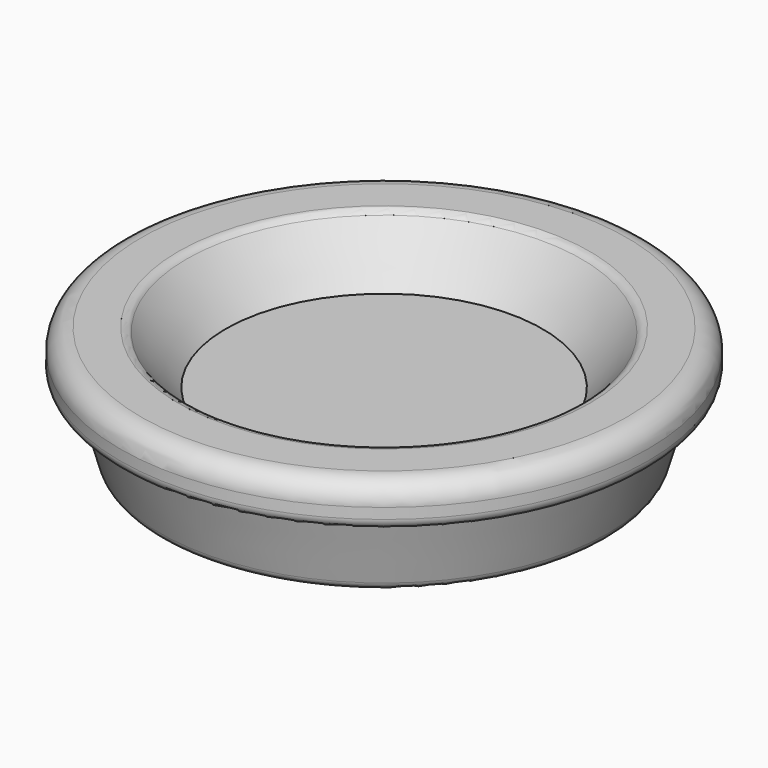
from build123d import *

# Parameters (mm, degrees)
FILLET017_R               = 1
FILLET018_R               = 1
FILLET019_R               = 2
FILLET020_R               = 1
FILLET020_PLACEMENT_ANGLE = 180


with BuildPart() as cone010:
    # Cone010 → Cone010 (revolve)
    with BuildSketch(Plane.XZ):
        Polygon((0, 0), (19, 0), (15, 5), (0, 5), align=None)
    revolve(axis=Axis((0, 0, 0), (0, 0, 1)))


with BuildPart() as fillet020:
    # Sketch013 → Revolve (revolve)
    with BuildSketch(Plane.XZ):
        Polygon((0, 0), (-25, 0), (-25, 4), (-23, 4), (-21, 11), (-8, 11), (-8, 17), (0, 17), align=None)
    revolve(axis=Axis((0, 0, 0), (0, 0, 1)))

    # Fillet017
    fillet017_edges = [fillet020.edges().sort_by_distance(p)[0] for p in [
        (21, 0, 11),
        (8, 0, 17),
    ]]
    fillet(fillet017_edges, radius=FILLET017_R)

    # Fillet018
    fillet018_edges = [fillet020.edges().sort_by_distance(p)[0] for p in [
        (25, 0, 4),
    ]]
    fillet(fillet018_edges, radius=FILLET018_R)

    # Fillet019
    fillet019_edges = [fillet020.edges().sort_by_distance(p)[0] for p in [
        (25, 0, 0),
    ]]
    fillet(fillet019_edges, radius=FILLET019_R)

    # Cut014: cut Cone010
    add(cone010.part, mode=Mode.SUBTRACT)

    # Fillet020
    fillet020_edges = [fillet020.edges().sort_by_distance(p)[0] for p in [
        (-19, 0, 0),
    ]]
    fillet(fillet020_edges, radius=FILLET020_R)


with BuildPart() as fillet020_1:
    # Fillet020 placement: moved
    add(fillet020.part.moved(Location((1.28, 9, 28))).rotate(Axis((1.28, 9, 28), (0, 1, 0)), FILLET020_PLACEMENT_ANGLE))


solid = fillet020_1.part
